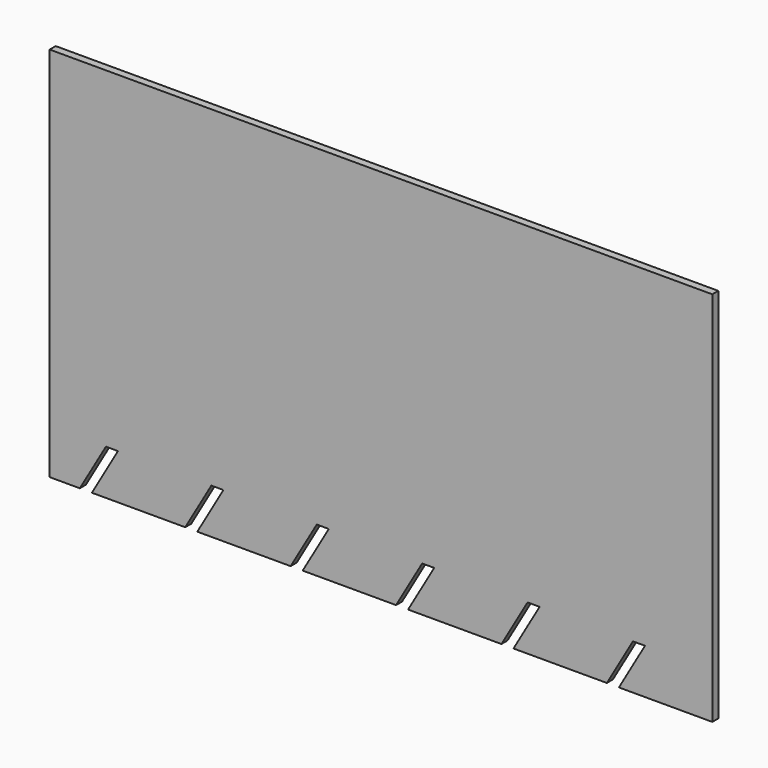
from build123d import *

# Parameters (mm, degrees)
F1_DEPTH = 5


with BuildPart() as f1:
    # F0 (on Front) → F1 (new body)
    with BuildSketch(Plane.XZ):
        Polygon((0, 250), (0, 0), (20, 0), (37.333198, 30), (45.333198, 30), (28, 0), (90, 0), (107.333198, 30), (115.333198, 30), (98, 0), (160, 0), (177.333198, 30), (185.333198, 30), (168, 0), (230, 0), (247.333198, 30), (255.333198, 30), (238, 0), (300, 0), (317.333198, 30), (325.333198, 30), (308, 0), (370, 0), (387.333198, 30), (395.333198, 30), (378, 0), (440, 0), (440, 250), align=None)
    extrude(amount=F1_DEPTH)


solid = f1.part
